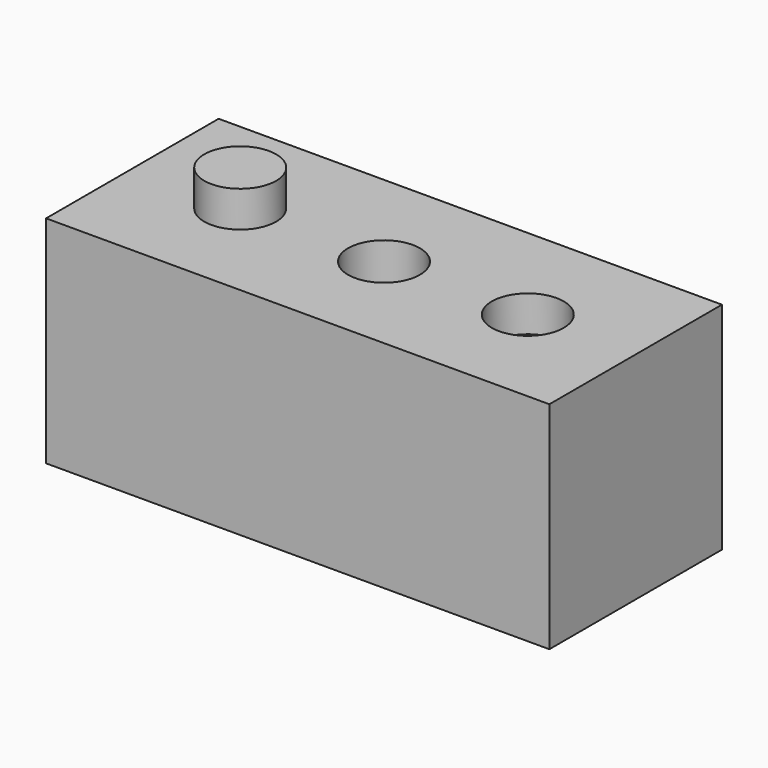
from build123d import *

# Parameters (mm, degrees)
F0_W     = 140
F0_H     = 60
F1_DEPTH = 60
F3_R     = 10
F6_DEPTH = 10
F4_R     = 10
F7_DEPTH = 114.6
F5_R     = 10
F8_DEPTH = 10


with BuildPart() as f1:
    # F0 (on Top) → F1 (new body)
    with BuildSketch(Plane.XY):
        Rectangle(F0_W, F0_H)
    extrude(amount=F1_DEPTH)

    # F3 (on face) → F6 (join)
    with BuildSketch(Plane.XY.offset(60)):
        with Locations((-40, 0)):
            Circle(F3_R)
    extrude(amount=F6_DEPTH)

    # F4 (on face) → F7 (cut)
    with BuildSketch(Plane.XY.offset(60)):
        Circle(F4_R)
    extrude(amount=-F7_DEPTH, mode=Mode.SUBTRACT)

    # F5 (on face) → F8 (cut)
    with BuildSketch(Plane.XY.offset(60)):
        with Locations((40, 0)):
            Circle(F5_R)
    extrude(amount=-F8_DEPTH, mode=Mode.SUBTRACT)


solid = f1.part
